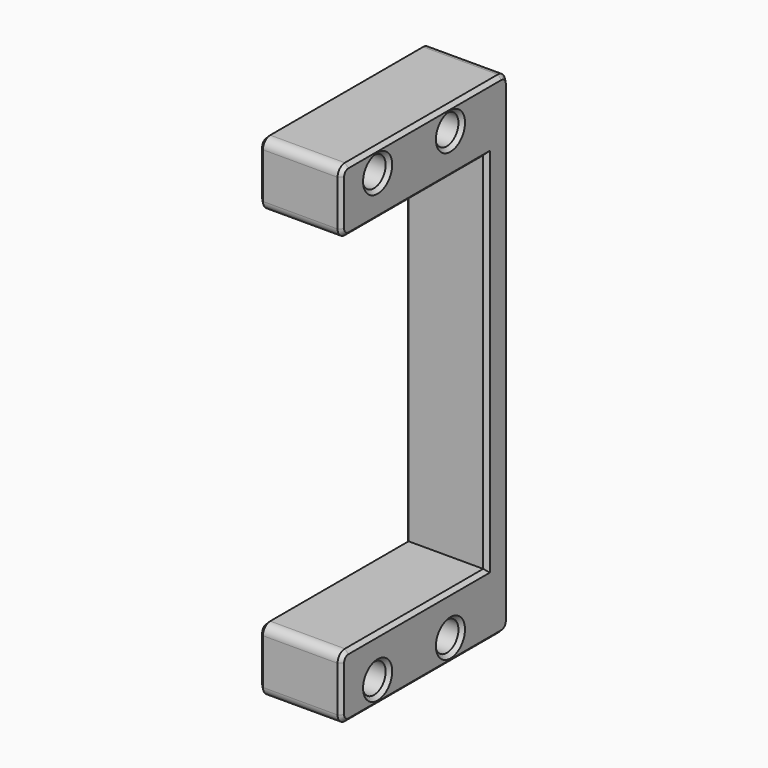
from build123d import *

# Parameters (mm, degrees)
SKETCH044_R     = 1.6
PAD025_DEPTH    = 9
FILLET013_R     = 1
CHAMFER007_SIZE = 0.4


with BuildPart() as part:
    # Sketch044 → Pad025 (new body)
    with BuildSketch(Plane.YZ):
        Polygon((-10, 17), (13, 17), (13, -37), (-10, -37), (-10, -30), (10, -30), (10, 10), (-10, 10), align=None)
        with Locations((-5, 14.5)):
            Circle(SKETCH044_R, mode=Mode.SUBTRACT)
        with Locations((5, 14.5)):
            Circle(SKETCH044_R, mode=Mode.SUBTRACT)
        with Locations((-5, -34.5)):
            Circle(SKETCH044_R, mode=Mode.SUBTRACT)
        with Locations((5, -34.5)):
            Circle(SKETCH044_R, mode=Mode.SUBTRACT)
    extrude(amount=-PAD025_DEPTH)

    # Fillet013
    fillet013_edges = [part.edges().sort_by_distance(p)[0] for p in [
        (-4.5, -10, 17),
        (-4.5, -10, 10),
        (-4.5, -10, -30),
        (-4.5, -10, -37),
        (-4.5, 13, -37),
        (-4.5, 13, 17),
    ]]
    fillet(fillet013_edges, radius=FILLET013_R)

    # Chamfer007
    chamfer007_edges = [part.edges().sort_by_distance(p)[0] for p in [
        (0, 1.5, 17),
        (0, -9.707107, 16.707107),
        (0, 12.707107, 16.707107),
        (0, -10, 13.5),
        (0, 13, -10),
        (0, -9.707107, 10.292893),
        (0, 12.707107, -36.707107),
        (0, 0.5, 10),
        (0, 1.5, -37),
        (0, 10, -10),
        (0, -9.707107, -36.707107),
        (0, 0.5, -30),
        (0, -10, -33.5),
        (0, -9.707107, -30.292893),
        (0, -6.6, 14.5),
        (0, 3.4, 14.5),
        (0, -6.6, -34.5),
        (0, 3.4, -34.5),
        (-9, 1.5, 17),
        (-9, -9.707107, 16.707107),
        (-9, 12.707107, 16.707107),
        (-9, -10, 13.5),
        (-9, 13, -10),
        (-9, -9.707107, 10.292893),
        (-9, 12.707107, -36.707107),
        (-9, 0.5, 10),
        (-9, 1.5, -37),
        (-9, 10, -10),
        (-9, -9.707107, -36.707107),
        (-9, 0.5, -30),
        (-9, -10, -33.5),
        (-9, -9.707107, -30.292893),
        (-9, -6.6, 14.5),
        (-9, 3.4, 14.5),
        (-9, -6.6, -34.5),
        (-9, 3.4, -34.5),
    ]]
    chamfer(chamfer007_edges, length=CHAMFER007_SIZE)


with BuildPart() as part_1:
    # Body025 placement: moved
    add(part.part.moved(Location((-8, 0, 0))))


solid = part_1.part
